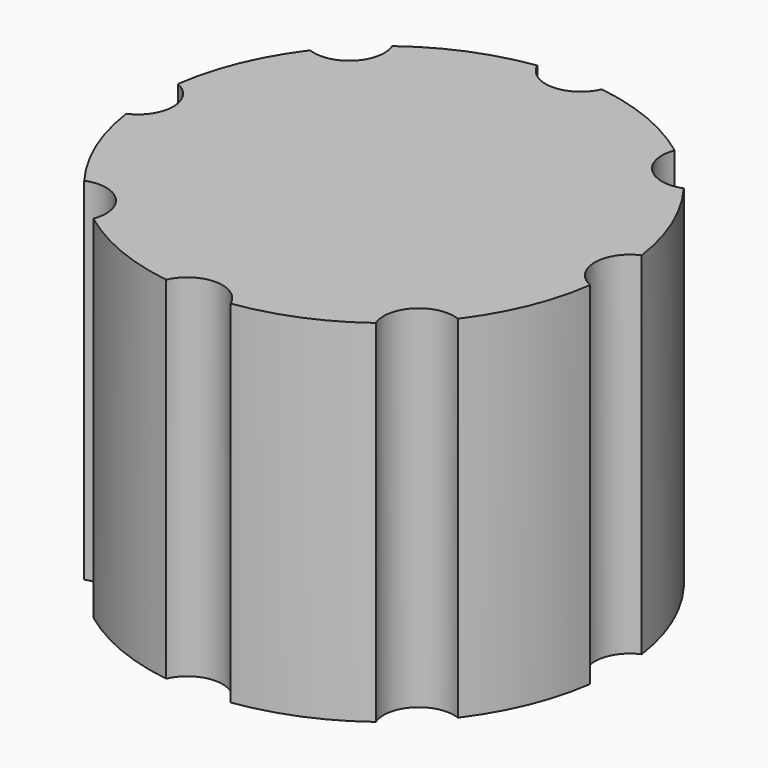
from build123d import *

# Parameters (mm, degrees)
CYLINDER001_R     = 1.5
CYLINDER001_DEPTH = 25
ARRAY_COUNT       = 8
CYLINDER_R        = 10
CYLINDER_DEPTH    = 15


with BuildPart() as array:
    # Cylinder001 → Cylinder001 (new body)
    with BuildSketch(Plane.XY):
        Circle(CYLINDER001_R)
    extrude(amount=CYLINDER001_DEPTH)

    # Array: Array ×8 about axis
    array_axis = Axis((10.5, 0, 0), (0, 0, 1))


with BuildPart() as array_1:
    add(array.part)
    for i in range(1, ARRAY_COUNT):
        add(array.part.rotate(array_axis, i * 360 / ARRAY_COUNT))


with BuildPart() as cut:
    # Cylinder → Cylinder (new body)
    with BuildSketch(Plane(origin=(10.5, 0, 0), x_dir=(1, 0, 0), z_dir=(0, 0, 1))):
        Circle(CYLINDER_R)
    extrude(amount=CYLINDER_DEPTH)

    # Cut: cut Array
    add(array_1.part, mode=Mode.SUBTRACT)


solid = cut.part
